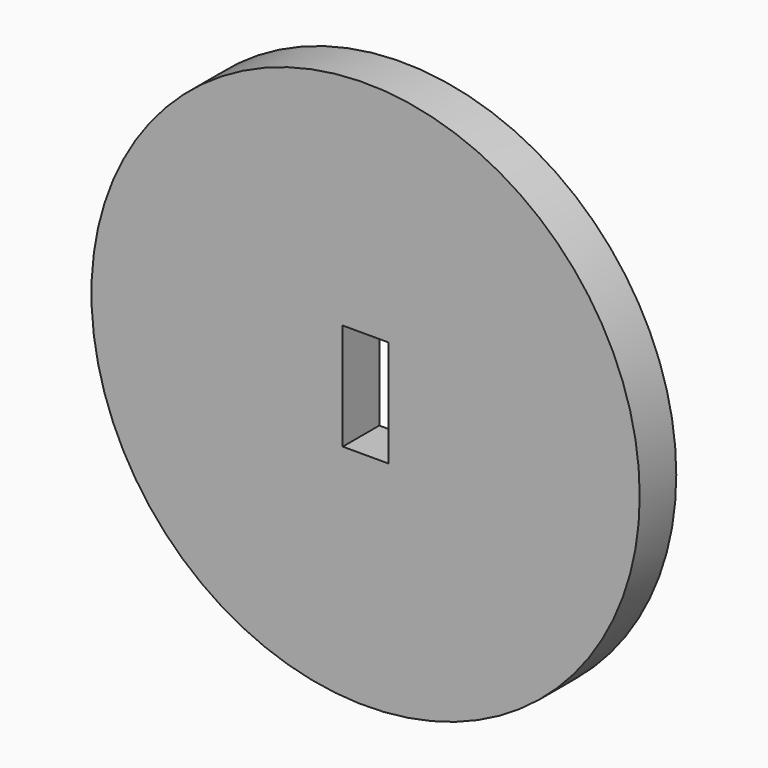
from build123d import *

# Parameters (mm, degrees)
F0_R     = 228.6
F0_W     = 38.1
F0_H     = 88.9
F1_DEPTH = 19.05


with BuildPart() as f1:
    # F0 (on Front) → F1 (new body, symmetric)
    with BuildSketch(Plane.XZ):
        Circle(F0_R)
        Rectangle(F0_W, F0_H, mode=Mode.SUBTRACT)
    extrude(amount=F1_DEPTH, both=True)


solid = f1.part
